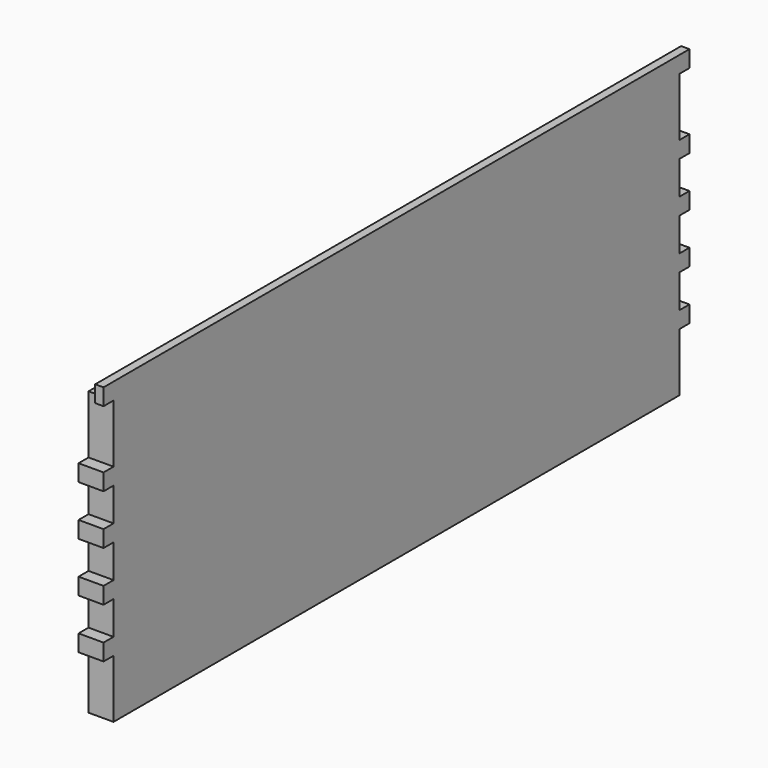
from build123d import *

# Parameters (mm, degrees)
F0_W     = 558.8
F0_H     = 228.6
F1_DEPTH = 19.05
F2_W     = 12.7
F2_H     = 12.7
F3_DEPTH = 558.8
F4_W     = 9.525
F4_H     = 44.45
F4_H_2   = 25.4
F5_DEPTH = 19.05


with BuildPart() as f1:
    # F0 (on Right) → F1 (new body)
    with BuildSketch(Plane.YZ):
        Rectangle(F0_W, F0_H)
    extrude(amount=F1_DEPTH)

    # F2 (on face) → F3 (cut, through all)
    with BuildSketch(Plane.XZ.offset(279.4)):
        with Locations((6.35, 107.95)):
            Rectangle(F2_W, F2_H)
    extrude(amount=-F3_DEPTH, mode=Mode.SUBTRACT)

    # F4 (on face) → F5 (cut, through all)
    with BuildSketch(Plane.YZ.offset(19.05)):
        with Locations((-274.6375, 79.375)):
            Rectangle(F4_W, F4_H)
        with Locations((-274.6375, 31.75)):
            Rectangle(F4_W, F4_H_2)
        with Locations((-274.6375, -6.35)):
            Rectangle(F4_W, F4_H_2)
        with Locations((-274.6375, -44.45)):
            Rectangle(F4_W, F4_H_2)
        with Locations((-274.6375, -92.075)):
            Rectangle(F4_W, F4_H)
        with Locations((274.6375, 79.375)):
            Rectangle(F4_W, F4_H)
        with Locations((274.6375, 31.75)):
            Rectangle(F4_W, F4_H_2)
        with Locations((274.6375, -6.35)):
            Rectangle(F4_W, F4_H_2)
        with Locations((274.6375, -44.45)):
            Rectangle(F4_W, F4_H_2)
        with Locations((274.6375, -92.075)):
            Rectangle(F4_W, F4_H)
    extrude(amount=-F5_DEPTH, mode=Mode.SUBTRACT)


solid = f1.part
